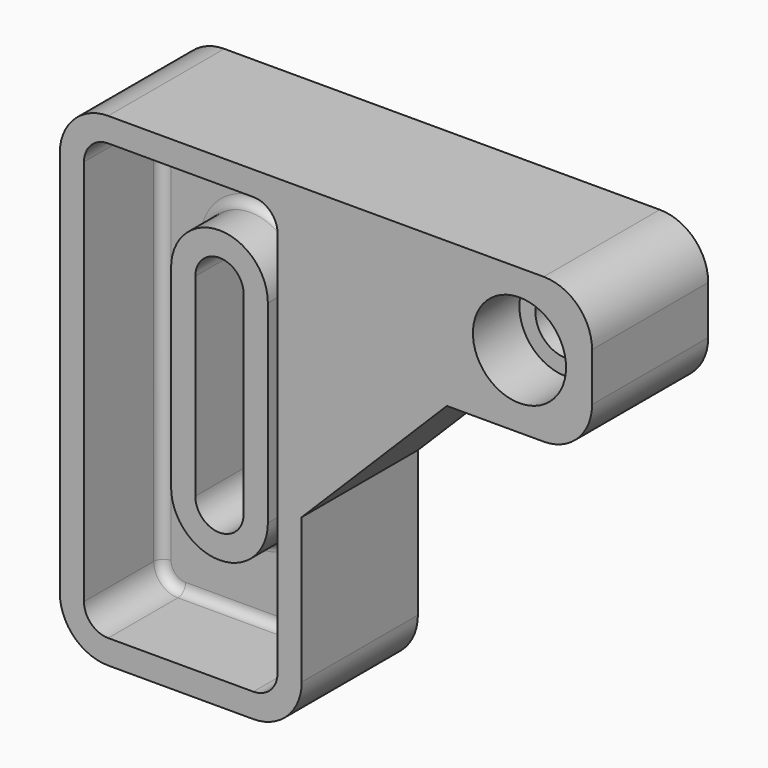
from build123d import *

# Parameters (mm, degrees)
F1_DEPTH       = 30
F2_D           = 12.6
F2_CBORE_D     = 19.25
F2_CBORE_DEPTH = 12
F4_DEPTH       = 20
F7_DEPTH       = 10
F10_DEPTH      = 20.001
F11_R          = 2


with BuildPart() as f1:
    # F0 (on Front) → F1 (new body)
    with BuildSketch(Plane.XZ):
        with BuildLine():
            Line((0, -30), (0, 0))
            Line((0, 0), (30, 30))
            Line((30, 30), (50, 30))
            ThreePointArc((50, 30), (57.0710678119, 32.9289321881), (60, 40))
            Line((60, 40), (60, 50))
            ThreePointArc((60, 50), (57.0710678119, 57.0710678119), (50, 60))
            Line((50, 60), (-40, 60))
            ThreePointArc((-40, 60), (-47.0710678119, 57.0710678119), (-50, 50))
            Line((-50, 50), (-50, -30))
            ThreePointArc((-50, -30), (-47.0710678119, -37.0710678119), (-40, -40))
            Line((-40, -40), (-10, -40))
            ThreePointArc((-10, -40), (-2.9289321881, -37.0710678119), (0, -30))
        make_face()
    extrude(amount=-F1_DEPTH)

    # F2 (through all)
    with Locations(Plane.XZ):
        with Locations((45, 45)):
            CounterBoreHole(F2_D / 2, F2_CBORE_D / 2, F2_CBORE_DEPTH)

    # F3 (on face) → F4 (cut)
    with BuildSketch(Plane.XZ):
        with BuildLine():
            Line((-10, 55), (-40, 55))
            ThreePointArc((-40, 55), (-43.5355339059, 53.5355339059), (-45, 50))
            Line((-45, 50), (-45, -30))
            ThreePointArc((-45, -30), (-43.5355339059, -33.5355339059), (-40, -35))
            Line((-40, -35), (-10, -35))
            ThreePointArc((-10, -35), (-6.4644660941, -33.5355339059), (-5, -30))
            Line((-5, -30), (-5, 50))
            ThreePointArc((-5, 50), (-6.4644660941, 53.5355339059), (-10, 55))
        make_face()
    extrude(amount=-F4_DEPTH, mode=Mode.SUBTRACT)

    # F6 (on offset) → F7 (join)
    with BuildSketch(Plane.XZ.offset(-20)):
        with BuildLine():
            Line((-15, -10), (-15, 30))
            ThreePointArc((-15, 30), (-25, 40), (-35, 30))
            Line((-35, 30), (-35, -10))
            ThreePointArc((-35, -10), (-25, -20), (-15, -10))
        make_face()
    extrude(amount=F7_DEPTH)

    # F9 (on offset) → F10 (cut, through all)
    with BuildSketch(Plane.XZ.offset(-10)):
        with BuildLine():
            Line((-20, -10), (-20, 30))
            ThreePointArc((-20, 30), (-25, 35), (-30, 30))
            Line((-30, 30), (-30, -10))
            ThreePointArc((-30, -10), (-25, -15), (-20, -10))
        make_face()
    extrude(amount=-F10_DEPTH, mode=Mode.SUBTRACT)

    # F11
    f11_edges = [f1.edges().sort_by_distance(p)[0] for p in [
        (-6.464466, 20, 53.535534),
        (-5, 20, 10),
        (-25, 20, 55),
        (-6.464466, 20, -33.535534),
        (-43.535534, 20, 53.535534),
        (-25, 20, -35),
        (-45, 20, 10),
        (-43.535534, 20, -33.535534),
        (-15, 20, 10),
        (-25, 20, 40),
        (-35, 20, 10),
        (-25, 20, -20),
    ]]
    fillet(f11_edges, radius=F11_R)


solid = f1.part
